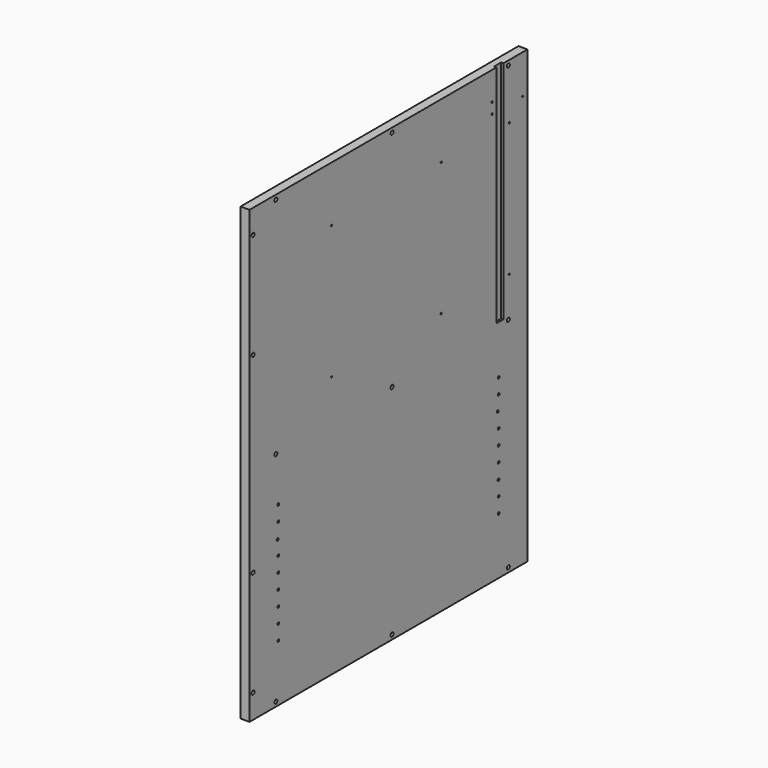
from build123d import *

# Parameters (mm, degrees)
F0_W      = 736.6
F0_H      = 955.675
F1_DEPTH  = 19.05
F3_D      = 3.175
F3_DEPTH  = 14.224
F3_TIP    = 0.9538662327
F5_D      = 8.001
F5_DEPTH  = 14.224
F5_TIP    = 2.4037429064
F7_D      = 3.175
F7_DEPTH  = 14.224
F7_TIP    = 0.9538662327
F8_D      = 8.001
F8_DEPTH  = 14.224
F8_TIP    = 2.4037429064
F9_W      = 19.05
F9_H      = 477.8375
F10_DEPTH = 4.826
F12_D     = 5.0038
F12_DEPTH = 14.224
F12_TIP   = 1.5032931827


with BuildPart() as f1:
    # F0 (on Right) → F1 (new body)
    with BuildSketch(Plane.YZ):
        Rectangle(F0_W, F0_H)
    extrude(amount=F1_DEPTH)

    # F3
    with Locations(Plane.YZ.offset(19.05)):
        with Locations((274.574, 417.5125), (274.574, 395.2875), (355.6, 395.2875)):
            Hole(F3_D / 2, depth=F3_DEPTH)
            with Locations((0, 0, -(F3_DEPTH + F3_TIP / 2))):  # 118° drill point
                Cone(0, F3_D / 2, F3_TIP, mode=Mode.SUBTRACT)

    # F5
    with Locations(Plane.YZ.offset(19.05)):
        with Locations((-298.45, 468.3125), (9.525, 468.3125), (317.5, 468.3125), (-358.775, 427.0375), (-358.775, -427.0375), (-298.45, -468.3125), (9.525, -468.3125), (317.5, -468.3125), (-358.775, 203.2), (-358.775, -203.2)):
            Hole(F5_D / 2, depth=F5_DEPTH)
            with Locations((0, 0, -(F5_DEPTH + F5_TIP / 2))):  # 118° drill point
                Cone(0, F5_D / 2, F5_TIP, mode=Mode.SUBTRACT)

    # F7
    with Locations(Plane.YZ.offset(19.05)):
        with Locations((-150.876, 360.2355), (139.7, 360.2355), (320.04, 360.2355), (320.04, 77.7875), (139.7, 77.7875), (-150.876, 77.7875)):
            Hole(F7_D / 2, depth=F7_DEPTH)
            with Locations((0, 0, -(F7_DEPTH + F7_TIP / 2))):  # 118° drill point
                Cone(0, F7_D / 2, F7_TIP, mode=Mode.SUBTRACT)

    # F8
    with Locations(Plane.YZ.offset(19.05)):
        with Locations((-298.45, -6.35), (9.525, -6.35), (317.5, -6.35)):
            Hole(F8_D / 2, depth=F8_DEPTH)
            with Locations((0, 0, -(F8_DEPTH + F8_TIP / 2))):  # 118° drill point
                Cone(0, F8_D / 2, F8_TIP, mode=Mode.SUBTRACT)

    # F9 (on face) → F10 (cut)
    with BuildSketch(Plane.YZ.offset(19.05)):
        with Locations((295.275, 238.91875)):
            Rectangle(F9_W, F9_H)
    extrude(amount=-F10_DEPTH, mode=Mode.SUBTRACT)

    # F12
    with Locations(Plane.YZ.offset(19.05)):
        with Locations((-292.1, -103.1875), (-292.1, -134.9375), (-293.6950922012, -167.6699370146), (-292.1, -198.4375), (-292.1, -230.1875), (-292.1, -261.9375), (-292.1, -293.6875), (-292.1, -325.4375), (-292.1, -357.1875), (292.1, -357.1875), (292.1, -325.4375), (291.5244102478, -294.0462231636), (292.1, -261.9375), (292.1, -230.1875), (292.1, -198.4375), (289.5801663399, -165.7256782055), (292.1, -134.9375), (292.1, -103.1875)):
            Hole(F12_D / 2, depth=F12_DEPTH)
            with Locations((0, 0, -(F12_DEPTH + F12_TIP / 2))):  # 118° drill point
                Cone(0, F12_D / 2, F12_TIP, mode=Mode.SUBTRACT)


solid = f1.part
